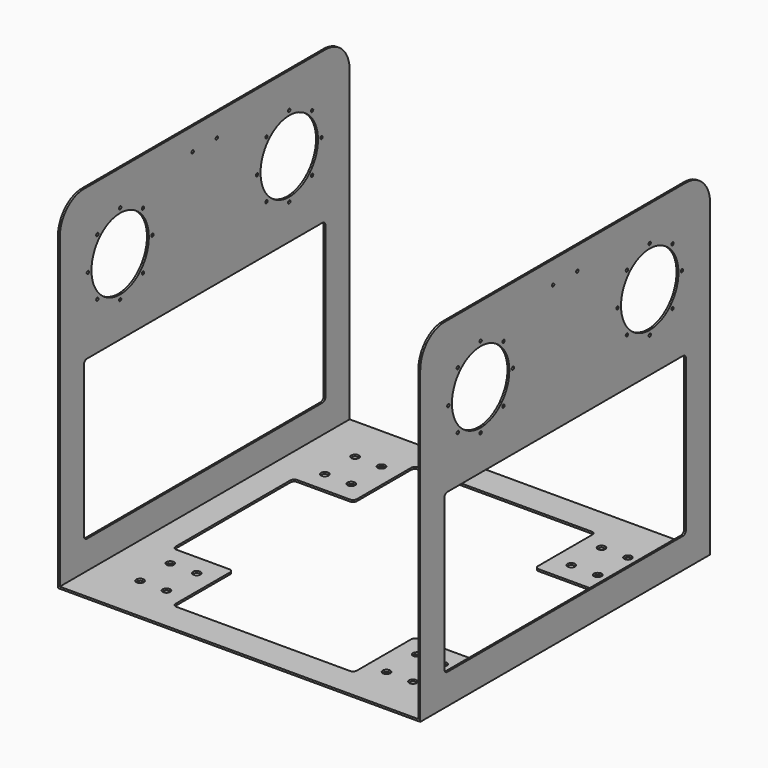
from build123d import *

# Parameters (mm, degrees)
F0_W      = 609.6
F0_H      = 609.6
F1_DEPTH  = 571.5
F2_W      = 603.25
F2_H      = 568.325
F3_DEPTH  = 609.601
F5_DEPTH  = 609.601
F7_DEPTH  = 609.601
F8_R      = 2.4765
F9_DEPTH  = 609.601
F11_DEPTH = 571.501
F12_R     = 6.35
F13_DEPTH = 571.501
F14_R     = 2.4765
F15_DEPTH = 609.601


with BuildPart() as f1:
    # F0 (on Top) → F1 (new body)
    with BuildSketch(Plane.XY):
        Rectangle(F0_W, F0_H)
    extrude(amount=F1_DEPTH)

    # F2 (on face) → F3 (cut, through all)
    with BuildSketch(Plane.XZ.offset(304.8)):
        with Locations((0, 287.3375)):
            Rectangle(F2_W, F2_H)
    extrude(amount=-F3_DEPTH, mode=Mode.SUBTRACT)

    # F4 (on face) → F5 (cut, through all)
    with BuildSketch(Plane.YZ.offset(304.8)):
        with BuildLine():
            Line((304.8, 571.5), (254, 571.5))
            ThreePointArc((254, 571.5), (289.921024, 556.621024), (304.8, 520.7))
            Line((304.8, 520.7), (304.8, 571.5))
        make_face()
        with BuildLine():
            ThreePointArc((-304.8, 520.7), (-289.921024, 556.621024), (-254, 571.5))
            Line((-254, 571.5), (-304.8, 571.5))
            Line((-304.8, 571.5), (-304.8, 520.7))
        make_face()
    extrude(amount=-F5_DEPTH, mode=Mode.SUBTRACT)

    # F6 (on face) → F7 (cut, through all)
    with BuildSketch(Plane.YZ.offset(304.8)):
        with BuildLine():
            ThreePointArc((247.65, 50.8), (252.140128, 52.659872), (254, 57.15))
            Line((254, 57.15), (254, 311.15))
            ThreePointArc((254, 311.15), (252.140128, 315.640128), (247.65, 317.5))
            Line((247.65, 317.5), (-247.65, 317.5))
            ThreePointArc((-247.65, 317.5), (-252.140128, 315.640128), (-254, 311.15))
            Line((-254, 311.15), (-254, 57.15))
            ThreePointArc((-254, 57.15), (-252.140128, 52.659872), (-247.65, 50.8))
            Line((-247.65, 50.8), (247.65, 50.8))
        make_face()
    extrude(amount=-F7_DEPTH, mode=Mode.SUBTRACT)

    # F8 (on face) → F9 (cut, through all)
    with BuildSketch(Plane.YZ.offset(304.8)):
        with BuildLine():
            Line((-177.8, 444.5), (-117.475, 444.5))
            ThreePointArc((-117.475, 444.5), (-122.066967, 467.585378), (-135.143783, 487.156217))
            Line((-135.143783, 487.156217), (-177.8, 444.5))
        make_face()
        with BuildLine():
            ThreePointArc((-127.324031, 396.500531), (-128.852816, 398.788519), (-131.551681, 398.251681))
            ThreePointArc((-131.551681, 398.251681), (-130.748247, 394.212543), (-127.324031, 396.500531))
        make_face()
        with BuildLine():
            ThreePointArc((-175.3235, 376.6185), (-176.04885, 378.36965), (-177.8, 379.095))
            ThreePointArc((-177.8, 379.095), (-179.55115, 374.86735), (-175.3235, 376.6185))
        make_face()
        with BuildLine():
            ThreePointArc((-223.322969, 396.500531), (-223.511481, 397.448247), (-224.048319, 398.251681))
            ThreePointArc((-224.048319, 398.251681), (-228.087457, 395.552816), (-223.322969, 396.500531))
        make_face()
        with Locations((-245.6815, 444.5)):
            Circle(F8_R)
        with BuildLine():
            ThreePointArc((-223.322969, 492.499469), (-228.087457, 493.447184), (-224.048319, 490.748319))
            ThreePointArc((-224.048319, 490.748319), (-223.511481, 491.551753), (-223.322969, 492.499469))
        make_face()
        with BuildLine():
            ThreePointArc((-175.3235, 512.3815), (-179.55115, 514.13265), (-177.8, 509.905))
            ThreePointArc((-177.8, 509.905), (-176.04885, 510.63035), (-175.3235, 512.3815))
        make_face()
        with BuildLine():
            ThreePointArc((-127.324031, 492.499469), (-130.748247, 494.787457), (-131.551681, 490.748319))
            ThreePointArc((-131.551681, 490.748319), (-128.852816, 490.211481), (-127.324031, 492.499469))
        make_face()
        with BuildLine():
            ThreePointArc((-135.143783, 401.843783), (-122.066967, 421.414622), (-117.475, 444.5))
            Line((-117.475, 444.5), (-177.8, 444.5))
            Line((-177.8, 444.5), (-135.143783, 401.843783))
        make_face()
        with BuildLine():
            ThreePointArc((-107.442, 444.5), (-109.9185, 446.9765), (-112.395, 444.5))
            ThreePointArc((-112.395, 444.5), (-109.9185, 442.0235), (-107.442, 444.5))
        make_face()
        with BuildLine():
            Line((-177.8, 444.5), (-135.143783, 487.156217))
            ThreePointArc((-135.143783, 487.156217), (-154.714622, 500.233033), (-177.8, 504.825))
            ThreePointArc((-177.8, 504.825), (-200.885378, 500.233033), (-220.456217, 487.156217))
            Line((-220.456217, 487.156217), (-177.8, 444.5))
        make_face()
        with BuildLine():
            ThreePointArc((-177.8, 384.175), (-154.714622, 388.766967), (-135.143783, 401.843783))
            Line((-135.143783, 401.843783), (-177.8, 444.5))
            Line((-177.8, 444.5), (-177.8, 384.175))
        make_face()
        with BuildLine():
            Line((-220.456217, 401.843783), (-177.8, 444.5))
            Line((-177.8, 444.5), (-238.125, 444.5))
            ThreePointArc((-238.125, 444.5), (-233.533033, 421.414622), (-220.456217, 401.843783))
        make_face()
        with BuildLine():
            Line((-177.8, 384.175), (-177.8, 444.5))
            Line((-177.8, 444.5), (-220.456217, 401.843783))
            ThreePointArc((-220.456217, 401.843783), (-200.885378, 388.766967), (-177.8, 384.175))
        make_face()
        with BuildLine():
            Line((-238.125, 444.5), (-177.8, 444.5))
            Line((-177.8, 444.5), (-220.456217, 487.156217))
            ThreePointArc((-220.456217, 487.156217), (-233.533033, 467.585378), (-238.125, 444.5))
        make_face()
        with BuildLine():
            ThreePointArc((177.8, 379.095), (176.04885, 374.86735), (180.2765, 376.6185))
            ThreePointArc((180.2765, 376.6185), (179.55115, 378.36965), (177.8, 379.095))
        make_face()
        with BuildLine():
            ThreePointArc((132.277031, 396.500531), (132.088519, 397.448247), (131.551681, 398.251681))
            ThreePointArc((131.551681, 398.251681), (127.512543, 395.552816), (132.277031, 396.500531))
        make_face()
        with Locations((109.9185, 444.5)):
            Circle(F8_R)
        with BuildLine():
            ThreePointArc((132.277031, 492.499469), (127.512543, 493.447184), (131.551681, 490.748319))
            ThreePointArc((131.551681, 490.748319), (132.088519, 491.551753), (132.277031, 492.499469))
        make_face()
        with BuildLine():
            ThreePointArc((180.2765, 512.3815), (176.04885, 514.13265), (177.8, 509.905))
            ThreePointArc((177.8, 509.905), (179.55115, 510.63035), (180.2765, 512.3815))
        make_face()
        with BuildLine():
            ThreePointArc((228.275969, 492.499469), (224.851753, 494.787457), (224.048319, 490.748319))
            ThreePointArc((224.048319, 490.748319), (226.747184, 490.211481), (228.275969, 492.499469))
        make_face()
        with BuildLine():
            ThreePointArc((248.158, 444.5), (245.6815, 446.9765), (243.205, 444.5))
            ThreePointArc((243.205, 444.5), (245.6815, 442.0235), (248.158, 444.5))
        make_face()
        with BuildLine():
            ThreePointArc((228.275969, 396.500531), (226.747184, 398.788519), (224.048319, 398.251681))
            ThreePointArc((224.048319, 398.251681), (224.851753, 394.212543), (228.275969, 396.500531))
        make_face()
        with BuildLine():
            ThreePointArc((135.143783, 401.843783), (154.714622, 388.766967), (177.8, 384.175))
            Line((177.8, 384.175), (177.8, 444.5))
            Line((177.8, 444.5), (135.143783, 401.843783))
        make_face()
        with BuildLine():
            Line((177.8, 444.5), (177.8, 384.175))
            ThreePointArc((177.8, 384.175), (200.885378, 388.766967), (220.456217, 401.843783))
            Line((220.456217, 401.843783), (177.8, 444.5))
        make_face()
        with BuildLine():
            ThreePointArc((117.475, 444.5), (122.066967, 421.414622), (135.143783, 401.843783))
            Line((135.143783, 401.843783), (177.8, 444.5))
            Line((177.8, 444.5), (117.475, 444.5))
        make_face()
        with BuildLine():
            Line((177.8, 444.5), (220.456217, 401.843783))
            ThreePointArc((220.456217, 401.843783), (233.533033, 421.414622), (238.125, 444.5))
            Line((238.125, 444.5), (177.8, 444.5))
        make_face()
        with BuildLine():
            Line((135.143783, 487.156217), (177.8, 444.5))
            Line((177.8, 444.5), (220.456217, 487.156217))
            ThreePointArc((220.456217, 487.156217), (200.885378, 500.233033), (177.8, 504.825))
            ThreePointArc((177.8, 504.825), (154.714622, 500.233033), (135.143783, 487.156217))
        make_face()
        with BuildLine():
            Line((117.475, 444.5), (177.8, 444.5))
            Line((177.8, 444.5), (135.143783, 487.156217))
            ThreePointArc((135.143783, 487.156217), (122.066967, 467.585378), (117.475, 444.5))
        make_face()
        with BuildLine():
            Line((220.456217, 487.156217), (177.8, 444.5))
            Line((177.8, 444.5), (238.125, 444.5))
            ThreePointArc((238.125, 444.5), (233.533033, 467.585378), (220.456217, 487.156217))
        make_face()
    extrude(amount=-F9_DEPTH, mode=Mode.SUBTRACT)

    # F10 (on face) → F11 (cut, through all)
    with BuildSketch(Plane(origin=(0, 0, 0), x_dir=(1, 0, 0), z_dir=(0, 0, -1))):
        with BuildLine():
            Line((0, 254), (-146.05, 254))
            ThreePointArc((-146.05, 254), (-150.540128, 252.140128), (-152.4, 247.65))
            Line((-152.4, 247.65), (-152.4, 190.5))
            Line((-152.4, 190.5), (-152.4, 133.35))
            ThreePointArc((-152.4, 133.35), (-154.259872, 128.859872), (-158.75, 127))
            Line((-158.75, 127), (-247.65, 127))
            ThreePointArc((-247.65, 127), (-252.140128, 125.140128), (-254, 120.65))
            Line((-254, 120.65), (-254, -120.65))
            ThreePointArc((-254, -120.65), (-252.140128, -125.140128), (-247.65, -127))
            Line((-247.65, -127), (-158.75, -127))
            ThreePointArc((-158.75, -127), (-154.259872, -128.859872), (-152.4, -133.35))
            Line((-152.4, -133.35), (-152.4, -247.65))
            ThreePointArc((-152.4, -247.65), (-150.540128, -252.140128), (-146.05, -254))
            Line((-146.05, -254), (0, -254))
            Line((0, -254), (146.05, -254))
            ThreePointArc((146.05, -254), (150.540128, -252.140128), (152.4, -247.65))
            Line((152.4, -247.65), (152.4, -133.35))
            ThreePointArc((152.4, -133.35), (154.259872, -128.859872), (158.75, -127))
            Line((158.75, -127), (247.65, -127))
            ThreePointArc((247.65, -127), (252.140128, -125.140128), (254, -120.65))
            Line((254, -120.65), (254, 120.65))
            ThreePointArc((254, 120.65), (252.140128, 125.140128), (247.65, 127))
            Line((247.65, 127), (158.75, 127))
            ThreePointArc((158.75, 127), (154.259872, 128.859872), (152.4, 133.35))
            Line((152.4, 133.35), (152.4, 190.5))
            Line((152.4, 190.5), (152.4, 247.65))
            ThreePointArc((152.4, 247.65), (150.540128, 252.140128), (146.05, 254))
            Line((146.05, 254), (0, 254))
        make_face()
    extrude(amount=-F11_DEPTH, mode=Mode.SUBTRACT)

    # F12 (on face) → F13 (cut, through all)
    with BuildSketch(Plane(origin=(0, 0, 0), x_dir=(1, 0, 0), z_dir=(0, 0, -1))):
        with Locations((-229.5398, 226.06)):
            Circle(F12_R)
        with Locations((-185.0898, 226.06)):
            Circle(F12_R)
        with Locations((-229.5398, 162.56)):
            Circle(F12_R)
        with Locations((-185.0898, 162.56)):
            Circle(F12_R)
        with Locations((185.0898, 226.06)):
            Circle(F12_R)
        with Locations((229.5398, 226.06)):
            Circle(F12_R)
        with Locations((229.5398, 162.56)):
            Circle(F12_R)
        with Locations((185.0898, 162.56)):
            Circle(F12_R)
        with Locations((229.5398, -162.56)):
            Circle(F12_R)
        with Locations((229.5398, -226.06)):
            Circle(F12_R)
        with Locations((185.0898, -226.06)):
            Circle(F12_R)
        with Locations((185.0898, -162.56)):
            Circle(F12_R)
        with Locations((-185.0898, -226.06)):
            Circle(F12_R)
        with Locations((-185.0898, -162.56)):
            Circle(F12_R)
        with Locations((-229.5398, -162.56)):
            Circle(F12_R)
        with Locations((-229.5398, -226.06)):
            Circle(F12_R)
    extrude(amount=-F13_DEPTH, mode=Mode.SUBTRACT)

    # F14 (on face) → F15 (cut, through all)
    with BuildSketch(Plane.YZ.offset(304.8)):
        with BuildLine():
            ThreePointArc((-27.8765, 533.4), (-25.4, 530.9235), (-22.9235, 533.4))
            ThreePointArc((-22.9235, 533.4), (-25.4, 535.8765), (-27.8765, 533.4))
        make_face()
        with Locations((25.4, 533.4)):
            Circle(F14_R)
    extrude(amount=-F15_DEPTH, mode=Mode.SUBTRACT)


solid = f1.part
